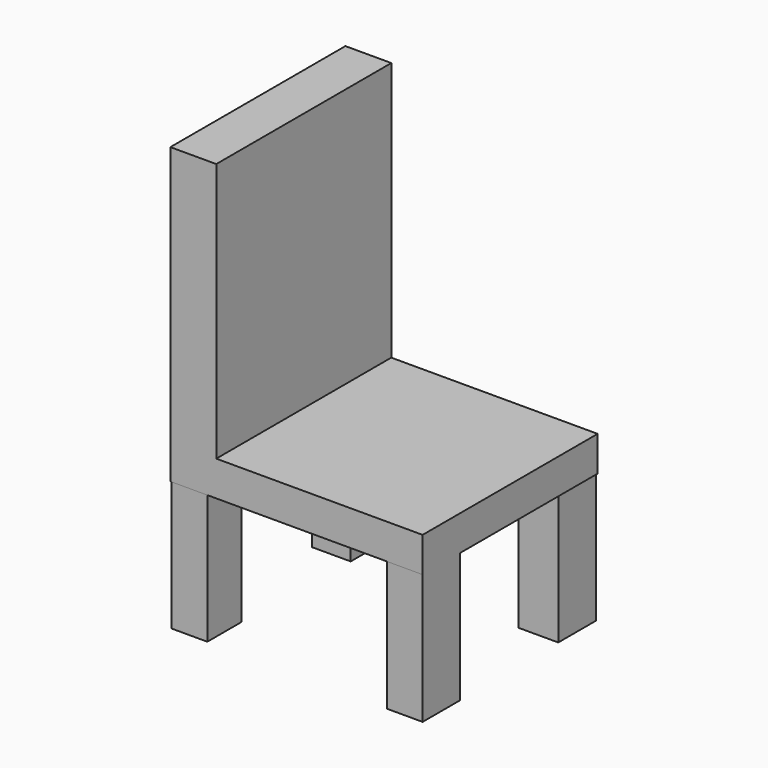
from build123d import *

# Parameters (mm, degrees)
F0_W     = 49.410142
F0_H     = 42.856064
F1_DEPTH = 6.858
F3_W     = 7.828336
F3_H     = 9.292633
F3_W_2   = 7.546743
F3_H_2   = 8.221232
F3_W_3   = 7.039872
F3_H_3   = 8.391527
F2_W     = 7.014964
F2_H     = 9.145477
F4_DEPTH = 25.4
F5_W     = 8.992075
F5_H     = 42.856064
F6_DEPTH = 50.8


with BuildPart() as f1:
    # F0 (on Top) → F1 (new body)
    with BuildSketch(Plane.XY):
        with Locations((15.156128, 18.422535)):
            Rectangle(F0_W, F0_H)
    extrude(amount=F1_DEPTH)

    # F3 (on face) + F2 (on face) → F4 (join)
    with BuildSketch(Plane(origin=(0, 0, 0), x_dir=(1, 0, 0), z_dir=(0, 0, -1))):
        with Locations((35.712557, -35.149272)):
            Rectangle(F3_W, F3_H)
        with Locations((-5.710055, -35.739951)):
            Rectangle(F3_W_2, F3_H_2)
        with Locations((-5.963491, -1.357882)):
            Rectangle(F3_W_3, F3_H_3)
    with BuildSketch(Plane(origin=(0, 0, 0), x_dir=(1, 0, 0), z_dir=(0, 0, -1))):
        with Locations((36.353717, -1.567241)):
            Rectangle(F2_W, F2_H)
    extrude(amount=F4_DEPTH)

    # F5 (on face) → F6 (join)
    with BuildSketch(Plane.XY.offset(6.858)):
        with Locations((-5.052905, 18.422535)):
            Rectangle(F5_W, F5_H)
    extrude(amount=F6_DEPTH)


solid = f1.part
